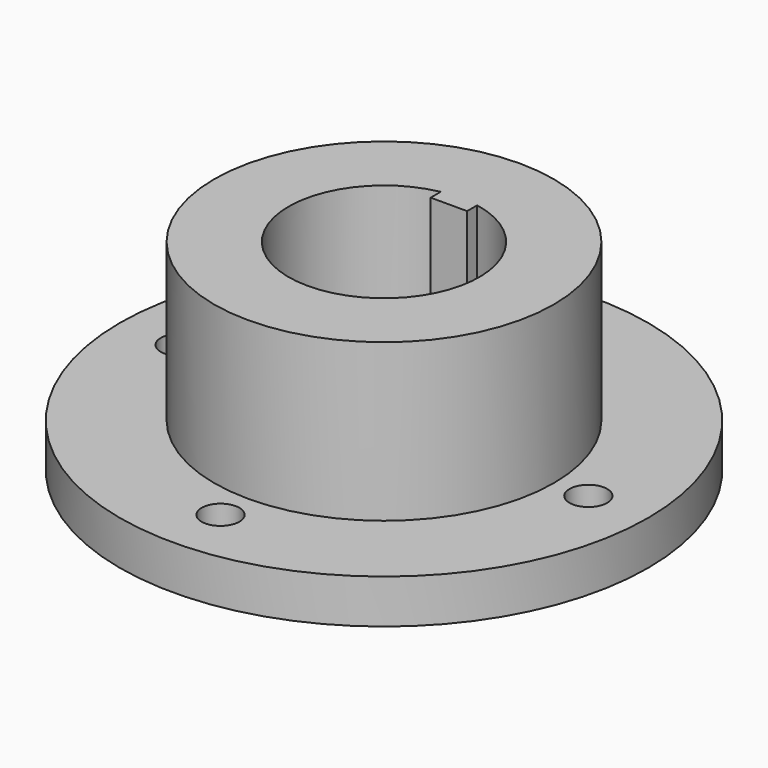
from build123d import *

# Parameters (mm, degrees)
SKETCH_R     = 42
PAD_DEPTH    = 7
SKETCH003_R  = 27
PAD001_DEPTH = 25
SKETCH004_R  = 3
HOLE_DEPTH   = 25


with BuildPart() as part:
    # Sketch → Pad (new body)
    with BuildSketch(Plane.XY):
        Circle(SKETCH_R)
        with BuildLine():
            Line((-2.9, 14.895322), (-2.9, 12.895322))
            Line((-2.9, 12.895322), (2.9, 12.895322))
            Line((2.9, 12.895322), (2.9, 14.895322))
            ThreePointArc((-2.9, 14.895322), (0, -15.175), (2.9, 14.895322))
        make_face(mode=Mode.SUBTRACT)
    extrude(amount=PAD_DEPTH)

    # Sketch003 (on Face7 of Pad) → Pad001 (join)
    with BuildSketch(Plane.XY.offset(7)):
        Circle(SKETCH003_R)
        with BuildLine():
            ThreePointArc((-2.9, 14.895322), (0, -15.175), (2.9, 14.895322))
            Line((2.9, 12.895322), (2.9, 14.895322))
            Line((-2.9, 12.895322), (2.9, 12.895322))
            Line((-2.9, 14.895322), (-2.9, 12.895322))
        make_face(mode=Mode.SUBTRACT)
    extrude(amount=PAD001_DEPTH)

    # Sketch004 (on Face3 of Pad001) → Hole (cut)
    with BuildSketch(Plane.XY.offset(7)):
        with Locations((0, 32.5)):
            Circle(SKETCH004_R)
        with Locations((0, -32.5)):
            Circle(SKETCH004_R)
        with Locations((32.5, 0)):
            Circle(SKETCH004_R)
        with Locations((-32.5, 0)):
            Circle(SKETCH004_R)
    extrude(amount=-HOLE_DEPTH, mode=Mode.SUBTRACT)


solid = part.part
